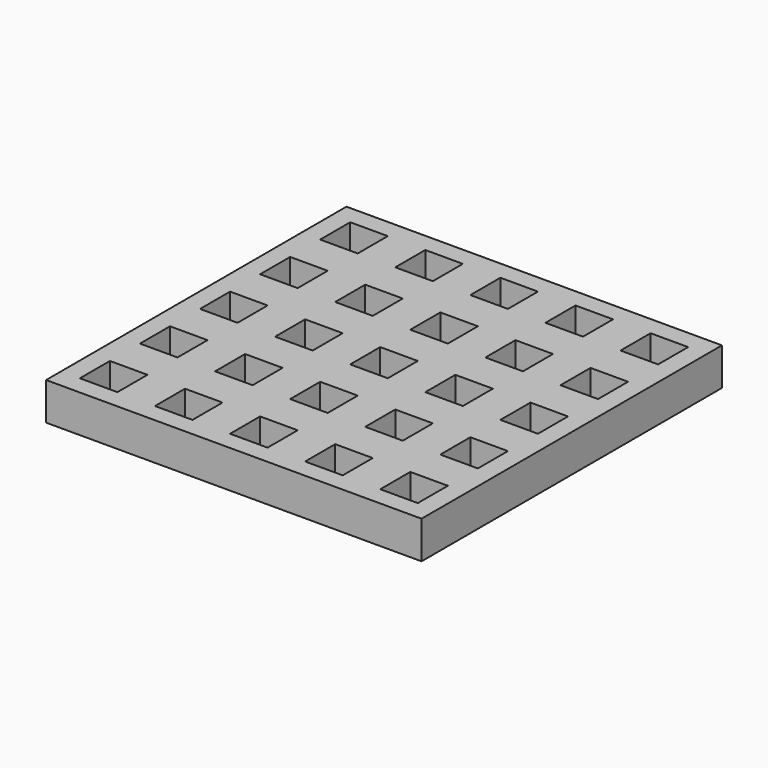
from build123d import *

# Parameters (mm, degrees)
BOX001_W      = 5
BOX001_H      = 5
BOX001_DEPTH  = 5
ARRAY_X_COUNT = 5
ARRAY_X_PITCH = 10
ARRAY_Y_COUNT = 5
ARRAY_Y_PITCH = 10
BOX_W         = 50
BOX_H         = 50
BOX_DEPTH     = 5


with BuildPart() as array:
    # Box001 → Box001 (new body)
    with BuildSketch(Plane.XY):
        with Locations((2.5, 2.5)):
            Rectangle(BOX001_W, BOX001_H)
    extrude(amount=BOX001_DEPTH)

    # Array X: Array ×5


with BuildPart() as array_1:
    add(array.part)
    with Locations(*[(i * ARRAY_X_PITCH, 0, 0) for i in range(1, ARRAY_X_COUNT)]):
        add(array.part)

    # Array Y: Array ×5


with BuildPart() as array_2:
    add(array_1.part)
    with Locations(*[(0, i * ARRAY_Y_PITCH, 0) for i in range(1, ARRAY_Y_COUNT)]):
        add(array_1.part)


with BuildPart() as array_3:
    # Array placement: moved
    add(array_2.part.moved(Location((2.5, 2.5, 0))))


with BuildPart() as cut:
    # Box → Box (new body)
    with BuildSketch(Plane.XY):
        with Locations((25, 25)):
            Rectangle(BOX_W, BOX_H)
    extrude(amount=BOX_DEPTH)

    # Cut: cut Array
    add(array_3.part, mode=Mode.SUBTRACT)


solid = cut.part
